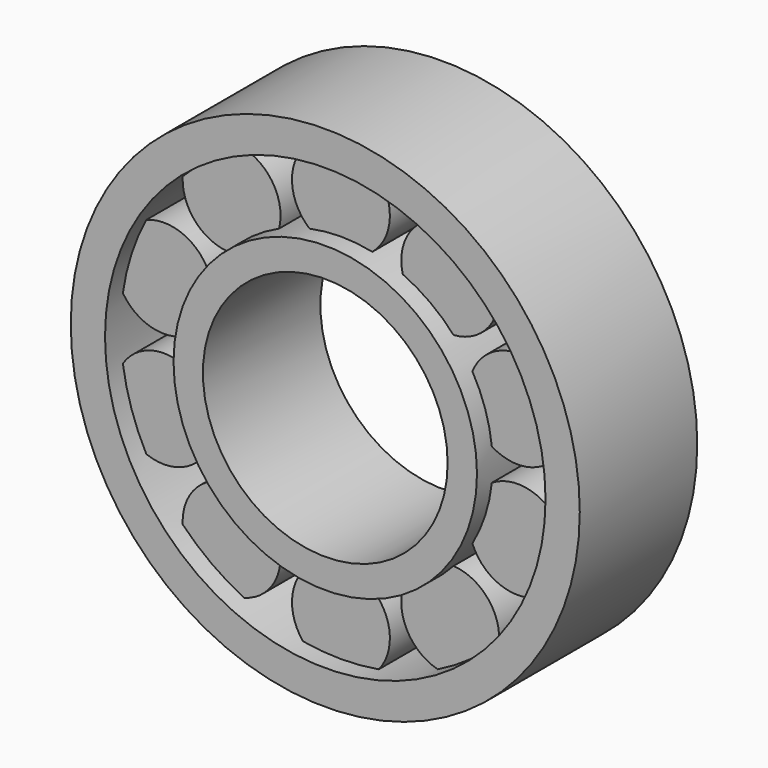
from build123d import *

# Parameters (mm, degrees)
F2_R     = 15.5
F2_R_2   = 12.5
F4_DEPTH = 15
F3_R     = 5
F5_DEPTH = 5.5
F1_R     = 26
F1_R_2   = 22.5
F6_DEPTH = 15


with BuildPart() as f4:
    # F2 (on Front) → F4 (new body)
    with BuildSketch(Plane.XZ):
        Circle(F2_R)
        Circle(F2_R_2, mode=Mode.SUBTRACT)
    extrude(amount=F4_DEPTH)

    # F3 (on offset) → F5 (join, symmetric)
    with BuildSketch(Plane.XZ.offset(7.5)):
        with Locations((0, 19)):
            Circle(F3_R)
        with Locations((-11.1679197936, 15.3713228931)):
            Circle(F3_R)
        with Locations((-18.0700738096, 5.8713228931)):
            Circle(F3_R)
        with Locations((-18.0700738096, -5.8713228931)):
            Circle(F3_R)
        with Locations((-11.1679197936, -15.3713228931)):
            Circle(F3_R)
        with Locations((0, -19)):
            Circle(F3_R)
        with Locations((11.1679197936, -15.3713228931)):
            Circle(F3_R)
        with Locations((18.0700738096, -5.8713228931)):
            Circle(F3_R)
        with Locations((18.0700738096, 5.8713228931)):
            Circle(F3_R)
        with Locations((11.1679197936, 15.3713228931)):
            Circle(F3_R)
    extrude(amount=F5_DEPTH, both=True)

    # F1 (on Front) → F6 (join)
    with BuildSketch(Plane.XZ):
        Circle(F1_R)
        Circle(F1_R_2, mode=Mode.SUBTRACT)
    extrude(amount=F6_DEPTH)


solid = f4.part
